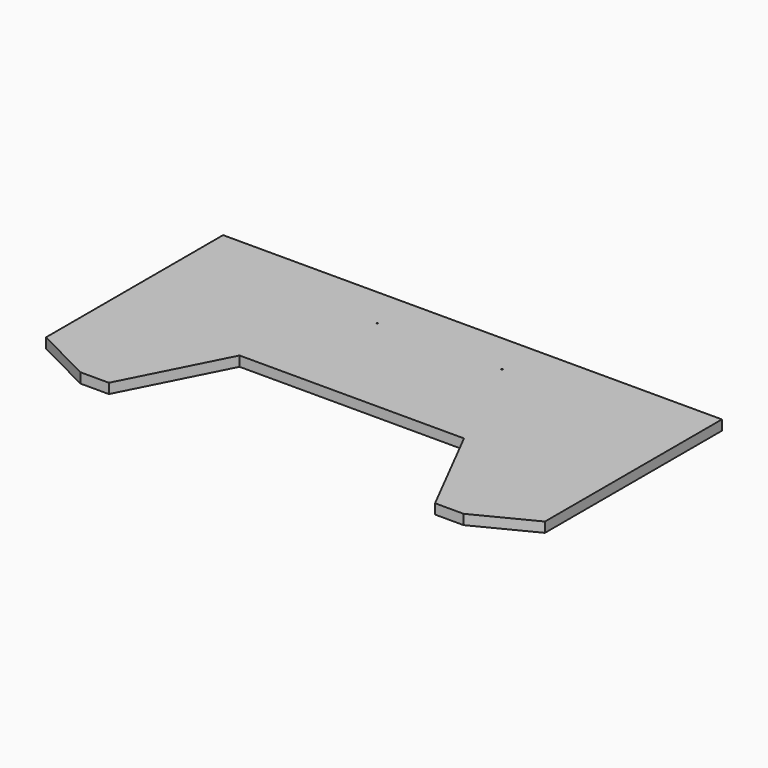
from build123d import *

# Parameters (mm, degrees)
F0_W     = 2000
F0_H     = 1005
F1_DEPTH = 40
F3_DEPTH = 40.001
F5_R     = 3
F6_DEPTH = 40.001
F8_DEPTH = 40.001


with BuildPart() as f1:
    # F0 (on Top) → F1 (new body)
    with BuildSketch(Plane.XY):
        Rectangle(F0_W, F0_H)
    extrude(amount=F1_DEPTH)

    # F2 (on face) → F3 (cut, through all)
    with BuildSketch(Plane.XY.offset(40)):
        Polygon((-450, -102.5), (-653.81018, -502.5), (0, -502.5), (653.81018, -502.5), (450, -102.5), (0, -102.5), align=None)
    extrude(amount=-F3_DEPTH, mode=Mode.SUBTRACT)

    # F5 (on face) → F6 (cut, through all)
    with BuildSketch(Plane(origin=(0, 0, 0), x_dir=(1, 0, 0), z_dir=(0, 0, -1))):
        with Locations((-250, -337.5)):
            Circle(F5_R)
        with Locations((250, -337.5)):
            Circle(F5_R)
    extrude(amount=-F6_DEPTH, mode=Mode.SUBTRACT)

    # F7 (on face) → F8 (cut, through all)
    with BuildSketch(Plane.XY.offset(40)):
        Polygon((-768.41196, -502.5), (-1000, -384.5), (-1000, -502.5), align=None)
        Polygon((1000, -502.5), (1000, -384.5), (768.41196, -502.5), align=None)
    extrude(amount=-F8_DEPTH, mode=Mode.SUBTRACT)


solid = f1.part
